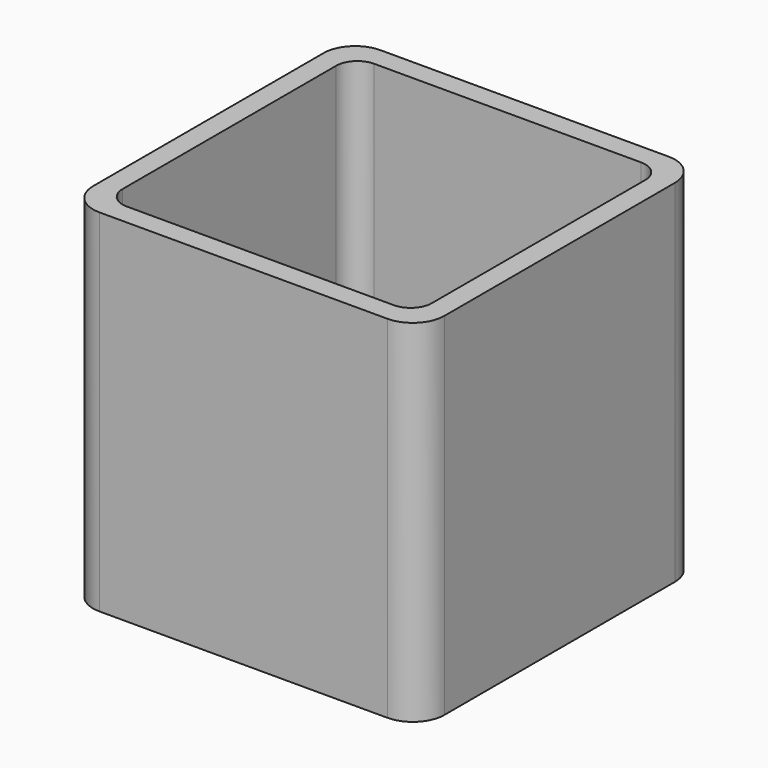
from build123d import *

# Parameters (mm, degrees)
EXTRUDE_DEPTH = 50


with BuildPart() as part:
    # Sketch → Extrude (new body)
    with BuildSketch(Plane.XY):
        with BuildLine():
            Line((-20.5, 25), (20.5, 25))
            ThreePointArc((25, 20.5), (23.681981, 23.681981), (20.5, 25))
            Line((25, 20.5), (25, -20.5))
            ThreePointArc((20.5, -25), (23.681981, -23.681981), (25, -20.5))
            Line((20.5, -25), (-20.5, -25))
            ThreePointArc((-25, -20.5), (-23.681981, -23.681981), (-20.5, -25))
            Line((-25, -20.5), (-25, 20.5))
            ThreePointArc((-20.5, 25), (-23.681981, 23.681981), (-25, 20.5))
        make_face()
        with BuildLine():
            Line((-19, 22), (19, 22))
            ThreePointArc((22, 19), (21.12132, 21.12132), (19, 22))
            Line((22, 19), (22, -19))
            ThreePointArc((19, -22), (21.12132, -21.12132), (22, -19))
            Line((19, -22), (-19, -22))
            ThreePointArc((-22, -19), (-21.12132, -21.12132), (-19, -22))
            Line((-22, -19), (-22, 19))
            ThreePointArc((-19, 22), (-21.12132, 21.12132), (-22, 19))
        make_face(mode=Mode.SUBTRACT)
    extrude(amount=EXTRUDE_DEPTH)


solid = part.part
